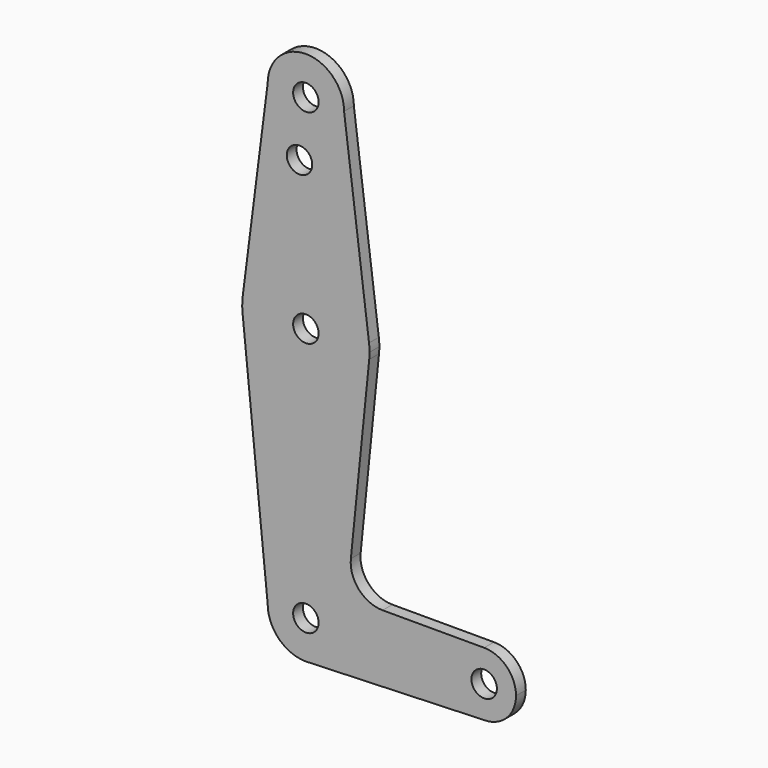
from build123d import *

# Parameters (mm, degrees)
F0_R     = 3.175
F1_DEPTH = 3.048


with BuildPart() as f1:
    # F0 (on Front) → F1 (new body)
    with BuildSketch(Plane.XZ):
        with BuildLine():
            ThreePointArc((-9.525, 0), (0, 9.525), (9.525, 0))
            ThreePointArc((9.525, 0), (6.97129, -6.490511), (0.67949, -9.500732))
            Line((0.67949, -9.500732), (44.45, -7.9375))
            ThreePointArc((44.45, -7.9375), (36.5125, 0), (44.45, 7.9375))
            Line((44.45, 7.9375), (19.124959, 7.9375))
            ThreePointArc((19.124959, 7.9375), (13.226887, 10.556806), (11.215222, 16.688789))
            Line((11.215222, 16.688789), (15.794203, 61.90038))
            ThreePointArc((15.794203, 61.90038), (0, 47.625), (-15.794203, 61.90038))
            Line((-15.794203, 61.90038), (-9.525, 0))
        make_face()
        with BuildLine():
            ThreePointArc((0.67949, -9.500732), (6.97129, -6.490511), (9.525, 0))
            ThreePointArc((9.525, 0), (0, 9.525), (-9.525, 0))
            ThreePointArc((-9.525, 0), (-6.735192, -6.735192), (0, -9.525))
            Line((0, -9.525), (0.67949, -9.500732))
        make_face()
        Circle(F0_R, mode=Mode.SUBTRACT)
        with BuildLine():
            ThreePointArc((9.525, 114.3), (0, 123.825), (-9.525, 114.3))
            ThreePointArc((-9.525, 114.3), (0, 104.775), (9.525, 114.3))
        make_face()
        with Locations((0, 114.3)):
            Circle(F0_R, mode=Mode.SUBTRACT)
        with BuildLine():
            ThreePointArc((44.45, 7.9375), (36.5125, 0), (44.45, -7.9375))
            ThreePointArc((44.45, -7.9375), (50.06266, -5.61266), (52.3875, 0))
            ThreePointArc((52.3875, 0), (50.06266, 5.61266), (44.45, 7.9375))
        make_face()
        with Locations((44.45, 0)):
            Circle(F0_R, mode=Mode.SUBTRACT)
        with BuildLine():
            Line((-9.525, 114.3), (-15.747457, 65.508289))
            ThreePointArc((-15.747457, 65.508289), (0, 79.375), (15.747457, 65.508289))
            Line((15.747457, 65.508289), (9.525, 114.3))
            ThreePointArc((9.525, 114.3), (0, 104.775), (-9.525, 114.3))
        make_face()
        with Locations((-1.5875, 100.0252)):
            Circle(F0_R, mode=Mode.SUBTRACT)
        with BuildLine():
            ThreePointArc((-15.747457, 65.508289), (-15.873668, 63.705667), (-15.794203, 61.90038))
            ThreePointArc((-15.794203, 61.90038), (0, 47.625), (15.794203, 61.90038))
            ThreePointArc((15.794203, 61.90038), (15.854788, 62.699171), (15.875, 63.5))
            ThreePointArc((15.875, 63.5), (15.843082, 64.506168), (15.747457, 65.508289))
            ThreePointArc((15.747457, 65.508289), (0, 79.375), (-15.747457, 65.508289))
        make_face()
        with Locations((0, 63.5)):
            Circle(F0_R, mode=Mode.SUBTRACT)
    extrude(amount=F1_DEPTH)


solid = f1.part
